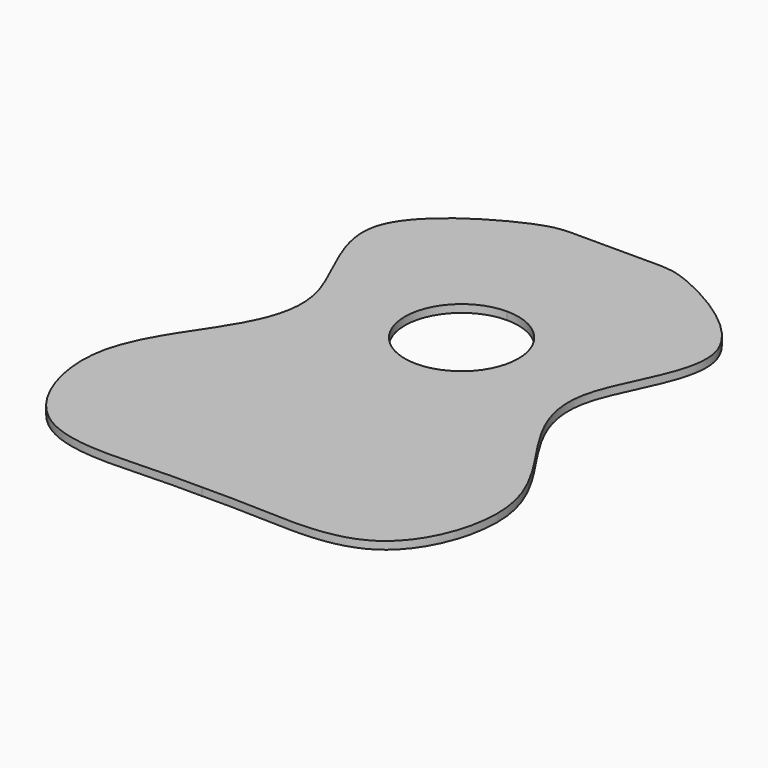
from build123d import *

# Parameters (mm, degrees)
F1_DEPTH = 4.7625


with BuildPart() as f1:
    # F0 (on Top) → F1 (new body)
    with BuildSketch(Plane.XY):
        with BuildLine():
            Line((0, 34.925), (0, 118.1083768606))
            add(Edge.make_bspline(
                [(0, 118.1083768606), (-26.2240208107, 118.2995467001), (-29.3349028531, 118.1395115503), (-46.4100025609, 116.3431073528), (-133.3154162229, 69.3095075457), (-70.4453736119, -7.7114178635), (-93.7681520505, -62.9375953173), (-139.9385319293, -118.0105606873), (-111.2541273978, -203.4402414791), (-38.4448942593, -199.6943225484), (-13.140325313, -199.1957967416), (0, -199.3916231394)],
                knots=[0, 0, 0, 0, 0.0869614439, 0.1426693041, 0.2774395978, 0.4113738555, 0.5246369808, 0.6518971133, 0.7816749323, 0.903630415, 1, 1, 1, 1], degree=3))
            Line((0, -199.3916231394), (0, -34.925))
            ThreePointArc((0, -34.925), (-34.925, 0), (0, 34.925))
        make_face()
        with BuildLine():
            add(Edge.make_bspline(
                [(0, 118.1083768606), (26.2240208107, 118.2995467001), (29.3349028531, 118.1395115503), (46.4100025609, 116.3431073528), (133.3154162229, 69.3095075457), (70.4453736119, -7.7114178635), (93.7681520505, -62.9375953173), (139.9385319293, -118.0105606873), (111.2541273978, -203.4402414791), (38.4448942593, -199.6943225484), (13.140325313, -199.1957967416), (0, -199.3916231394)],
                knots=[0, 0, 0, 0, 0.0869614439, 0.1426693041, 0.2774395978, 0.4113738555, 0.5246369808, 0.6518971133, 0.7816749323, 0.903630415, 1, 1, 1, 1], degree=3))
            Line((0, 118.1083768606), (0, 34.925))
            ThreePointArc((0, 34.925), (24.6957043329, 24.6957043329), (34.925, 0))
            ThreePointArc((34.925, 0), (24.6957043329, -24.6957043329), (0, -34.925))
            Line((0, -34.925), (0, -199.3916231394))
        make_face()
    extrude(amount=F1_DEPTH)


solid = f1.part
